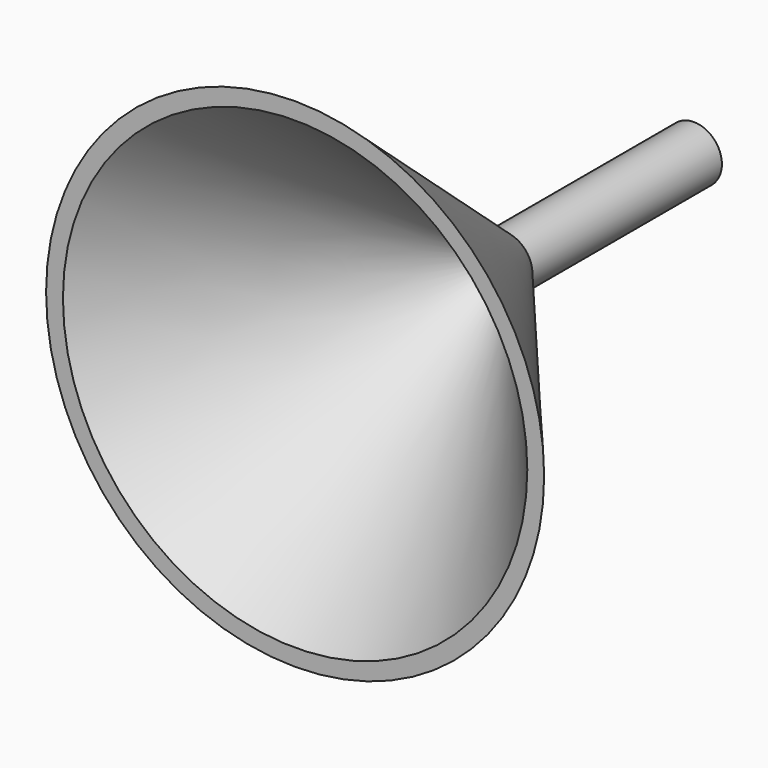
from build123d import *

# Parameters (mm, degrees)
F0_R      = 5.4448713035
F1_DEPTH  = 46
F3_R      = 48.3631906875
F1_FACE_R = 5.4448713035
F5_T      = -2.5
F6_R      = 3.2055252898
F7_DEPTH  = 96.8010001


with BuildPart() as f1:
    # F0 (on Front) → F1 (new body)
    with BuildSketch(Plane.XZ):
        Circle(F0_R)
    extrude(amount=-F1_DEPTH)

    # F3 (on offset) → F4 section 0
    with BuildSketch(Plane.XZ.offset(50.8)):
        Circle(F3_R)
    # F1_face (on face) → F4 section 1
    with BuildSketch(Plane.XZ):
        Circle(F1_FACE_R)
    loft()

    # F5
    f5_openings = [f1.faces().sort_by_distance(p)[0] for p in [
        (0, -50.8, 0),
    ]]
    offset(amount=F5_T, openings=f5_openings, kind=Kind.INTERSECTION)

    # F6 (on face) → F7 (cut, through all)
    with BuildSketch(Plane(origin=(0, 46, 0), x_dir=(-1, 0, 0), z_dir=(0, 1, 0))):
        Circle(F6_R)
    extrude(amount=-F7_DEPTH, mode=Mode.SUBTRACT)


solid = f1.part
